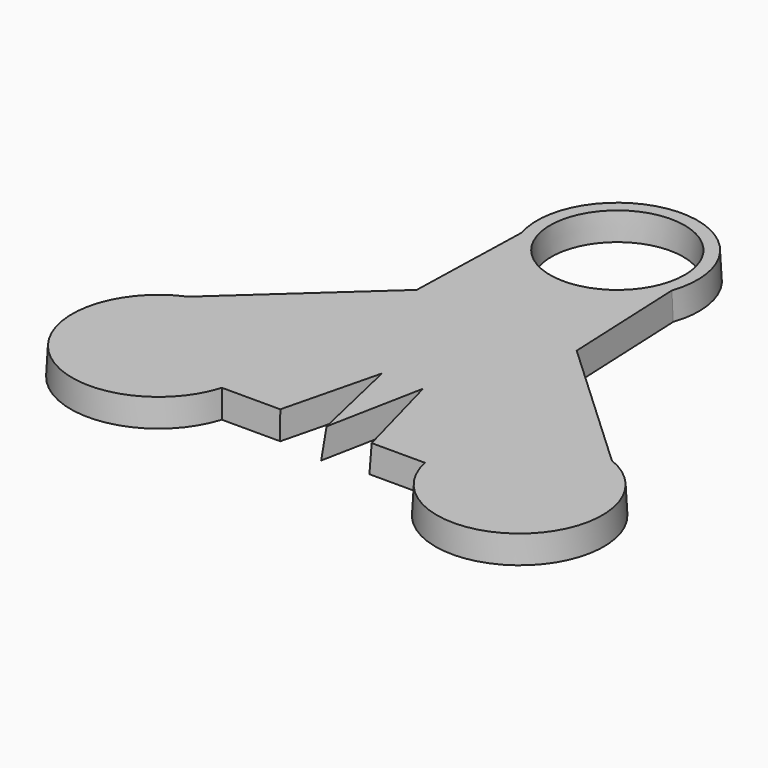
from build123d import *

# Parameters (mm, degrees)
F0_R     = 17.7226640642
F0_R_2   = 18.3749948005
F0_R_3   = 17.2587936306
F0_R_4   = 17.3107234895
F1_DEPTH = 7
F1_TAPER = -3


with BuildPart() as f1:
    # F0 (on Top) → F1 (new body)
    with BuildSketch(Plane.XY):
        with BuildLine():
            Line((20.9337220527, 9.4692130681), (19.499204162, 41.8922447345))
            ThreePointArc((19.499204162, 41.8922447345), (0.4136393699, 69.3604386191), (-19.7564966048, 42.6784957835))
            Line((-19.7564966048, 42.6784957835), (-20.6694687182, 10.0329346663))
            Line((-20.6694687182, 10.0329346663), (-54.6471718869, -20.9214688483))
            ThreePointArc((-54.6471718869, -20.9214688483), (-60.7466147764, -57.9726414688), (-24.6403292313, -47.6610586484))
            Line((-24.6403292313, -47.6610586484), (-9.6195229838, -47.6610586484))
            Line((-9.6195229838, -47.6610586484), (-3.4192691352, -22.7199320794))
            Line((-3.4192691352, -22.7199320794), (2.290364122, -47.6610586484))
            Line((2.290364122, -47.6610586484), (7.1764700115, -22.7199320794))
            Line((7.1764700115, -22.7199320794), (13.8948652893, -47.6610586484))
            Line((13.8948652893, -47.6610586484), (27.5816481614, -47.6610586484))
            ThreePointArc((27.5816481614, -47.6610586484), (62.1265489826, -59.4900511481), (56.3092509412, -23.4423843748))
            Line((56.3092509412, -23.4423843748), (20.9337220527, 9.4692130681))
        make_face()
        with Locations((-45.9599420428, -41.3792170584)):
            Circle(F0_R, mode=Mode.SUBTRACT)
        Circle(F0_R_2, mode=Mode.SUBTRACT)
        with Locations((48.4029948711, -43.211504817)):
            Circle(F0_R_3, mode=Mode.SUBTRACT)
        with Locations((0, 48.7083792686)):
            Circle(F0_R_4, mode=Mode.SUBTRACT)
        Circle(F0_R_2)
        with Locations((48.4029948711, -43.211504817)):
            Circle(F0_R_3)
        with Locations((-45.9599420428, -41.3792170584)):
            Circle(F0_R)
    extrude(amount=-F1_DEPTH, taper=F1_TAPER)


solid = f1.part
